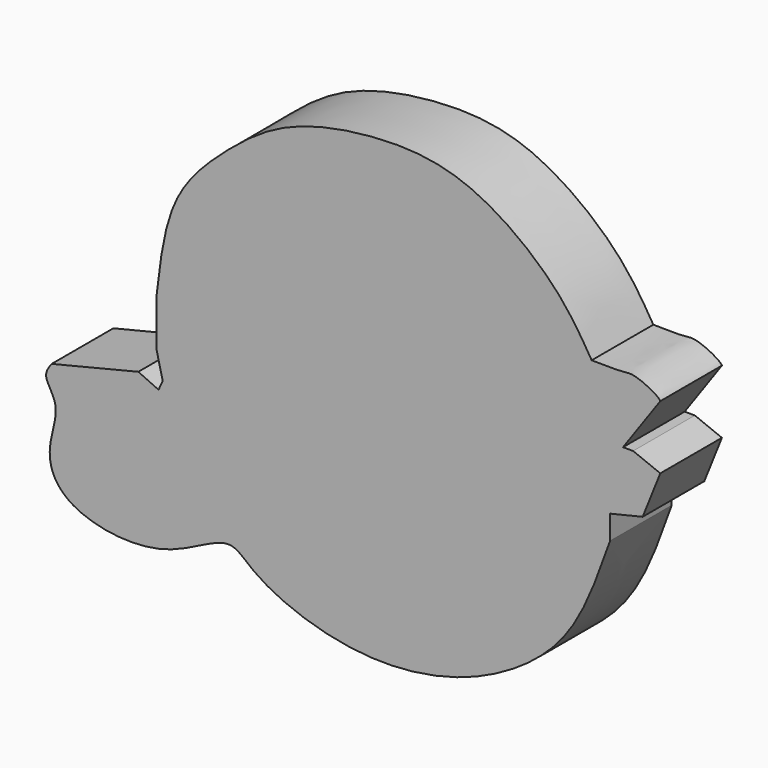
from build123d import *

# Parameters (mm, degrees)
F1_DEPTH = 25.4


with BuildPart() as f1:
    # F0 (on Front) → F1 (new body)
    with BuildSketch(Plane.XZ):
        with BuildLine():
            Line((-33.5568673909, -26.4919754118), (-62.1109865606, -33.4786251187))
            add(Edge.make_bspline(
                [(121.9719648361, -24.9731410295), (118.8888716336, -33.6800472384), (113.0668096008, -50.1220244127), (99.8107652161, -67.163228392), (74.9166113323, -81.9561806249), (44.5438500124, -86.4026994898), (18.4355029448, -80.226202429), (3.5742816523, -72.0728590252), (-4.3599753831, -63.2691463233), (-25.008059967, -79.9934972864), (-58.6876117681, -74.6992475868), (-64.7162908846, -58.6612832523), (-58.4805814435, -45.1470085157), (-65.4256117845, -37.9571861745), (-63.113438997, -34.8330902961), (-62.1109865606, -33.4786251187)],
                knots=[0, 0, 0, 0, 0.0927739179, 0.1751927267, 0.2704875921, 0.3702406824, 0.4632260988, 0.5365194638, 0.5896196825, 0.6762828483, 0.7769382379, 0.8445971258, 0.9107025741, 0.9612847177, 1, 1, 1, 1], degree=3))
            Line((121.9719648361, -24.9731410295), (121.9719648361, -17.0751921833))
            Line((121.9719648361, -17.0751921833), (132.7085883341, -14.5047926825))
            Line((132.7085883341, -14.5047926825), (138.5136887208, 0))
            Line((138.5136887208, 0), (129.5661479235, 3.5809800029))
            Line((129.5661479235, 3.5809800029), (126.2247115374, 3.5809800029))
            Line((126.2247115374, 3.5809800029), (138.5066197756, 20.943304009))
            add(Edge.make_bspline(
                [(115.8966198564, 25.4522226751), (119.2343256211, 25.3525877105), (125.0845642228, 25.1779502927), (129.8616876262, 26.3295278083), (137.4599209641, 22.4220521195), (138.3652135784, 21.1980978436), (138.5066197756, 20.943304009)],
                knots=[0, 0, 0, 0, 0.3202606034, 0.5613439519, 0.8692544234, 0.9581418879, 0.9581418879, 0.9581418879, 0.9581418879], degree=3))
            add(Edge.make_bspline(
                [(-27.5519533987, -2.4887824465), (-26.3284423183, 8.1572361622), (-24.0100695315, 28.3298690275), (-5.8710498168, 46.5707201572), (13.9920502046, 62.035250946), (43.6219284337, 68.0590277037), (75.0342820705, 66.628994075), (104.6467559069, 44.0711933851), (112.478499983, 31.1093465383), (115.8966198564, 25.4522226751)],
                knots=[0, 0, 0, 0, 0.1491178208, 0.282556246, 0.4168152346, 0.5631438179, 0.7140710702, 0.8752079552, 1, 1, 1, 1], degree=3))
            Line((-27.5519533987, -2.4887824465), (-27.5519533987, -11.6073824465))
            Line((-27.5519533987, -11.6073824465), (-27.5519533987, -18.0780547839))
            Line((-27.5519533987, -18.0780547839), (-26.7477244381, -21.3649019199))
            Line((-26.7477244381, -21.3649019199), (-25.4932270993, -26.4919754118))
            Line((-25.4932270993, -26.4919754118), (-26.8739871681, -29.5296479017))
            Line((-26.8739871681, -29.5296479017), (-33.5568673909, -26.4919754118))
        make_face()
    extrude(amount=F1_DEPTH)


solid = f1.part
